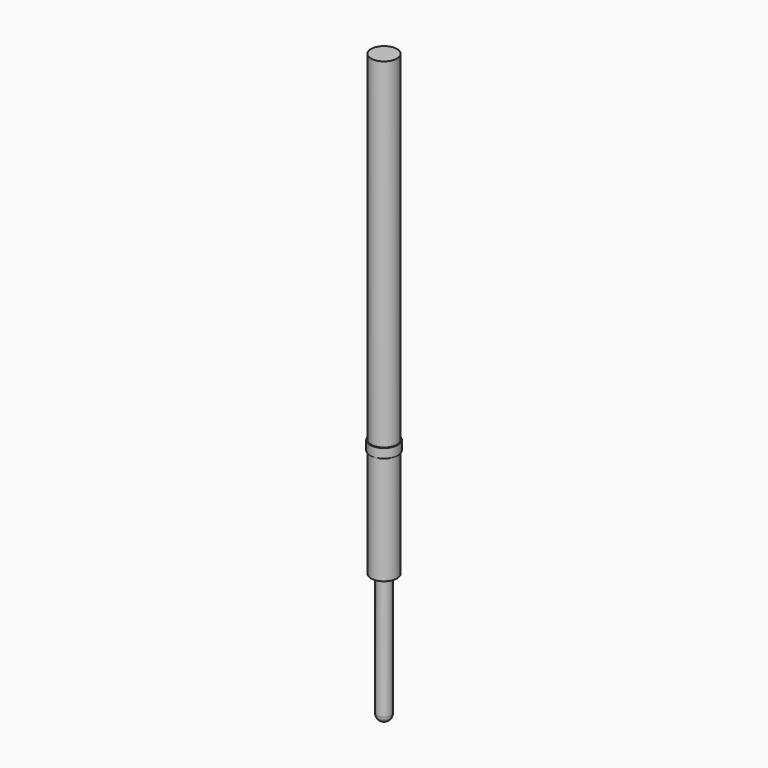
from build123d import *

# Parameters (mm, degrees)
F0_R     = 0.84
F1_DEPTH = 29.6
F2_W     = 0.9
F2_H     = 0.6
F4_R     = 0.455
F5_DEPTH = 8.38
F6_R     = 0.45


with BuildPart() as f1:
    # F0 (on Top) → F1 (new body)
    with BuildSketch(Plane.XY):
        Circle(F0_R)
    extrude(amount=F1_DEPTH)

    # F2 (on Right) → F3 (revolve)
    with BuildSketch(Plane.YZ):
        with Locations((0.45, 7.32)):
            Rectangle(F2_W, F2_H)
    revolve(axis=Axis((0, 0, 7.32), (0, 0, 1)))

    # F4 (on Top) → F5 (join)
    with BuildSketch(Plane.XY):
        Circle(F4_R)
    extrude(amount=-F5_DEPTH)

    # F6
    f6_edges = [f1.edges().sort_by_distance(p)[0] for p in [
        (-0.455, 0, -8.38),
    ]]
    fillet(f6_edges, radius=F6_R)


solid = f1.part
